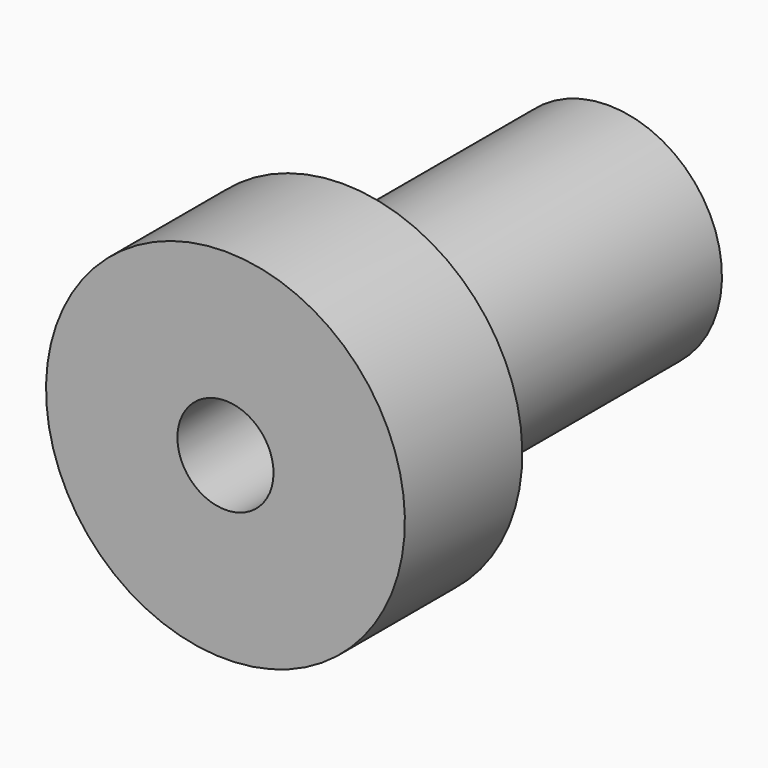
from build123d import *

# Parameters (mm, degrees)
F0_W   = 31.165479
F0_H   = 13.947648
F0_W_2 = 70.434521


with BuildPart() as f1:
    # F0 (on Right) → F1 (revolve)
    with BuildSketch(Plane.YZ):
        with Locations((-15.582739, 31.126176)):
            Rectangle(F0_W, F0_H)
        with Locations((-15.582739, 17.178528)):
            Rectangle(F0_W, F0_H)
        with Locations((35.217261, 17.178528)):
            Rectangle(F0_W_2, F0_H)
    revolve(axis=Axis((0, 19.634521, 0), (0, 1, 0)))


solid = f1.part
